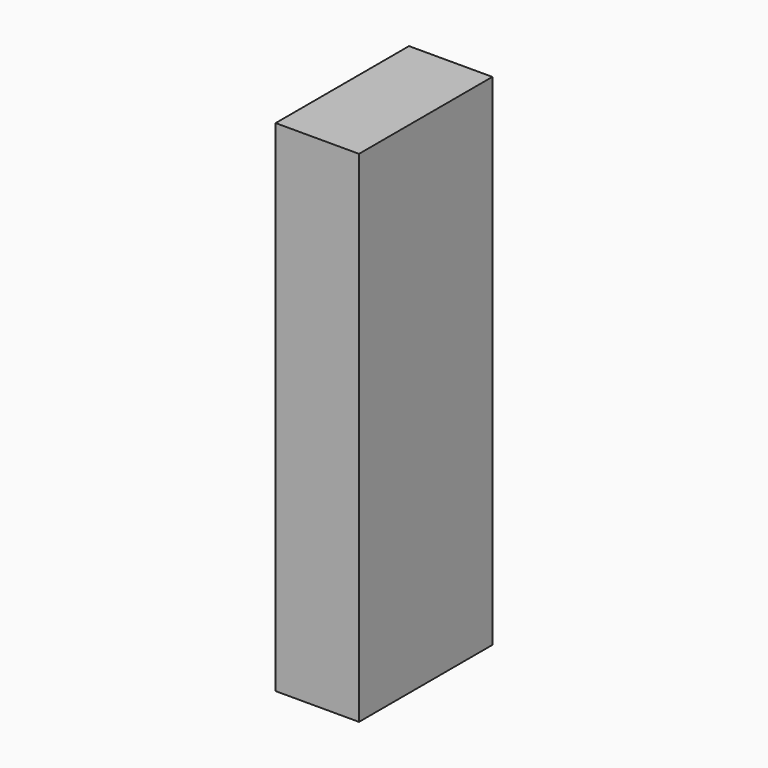
from build123d import *

# Parameters (mm, degrees)
BOX_W     = 1
BOX_H     = 2
BOX_DEPTH = 6


with BuildPart() as part:
    # Box → Box (new body)
    with BuildSketch(Plane.XY):
        with Locations((0.5, 1)):
            Rectangle(BOX_W, BOX_H)
    extrude(amount=BOX_DEPTH)


solid = part.part
